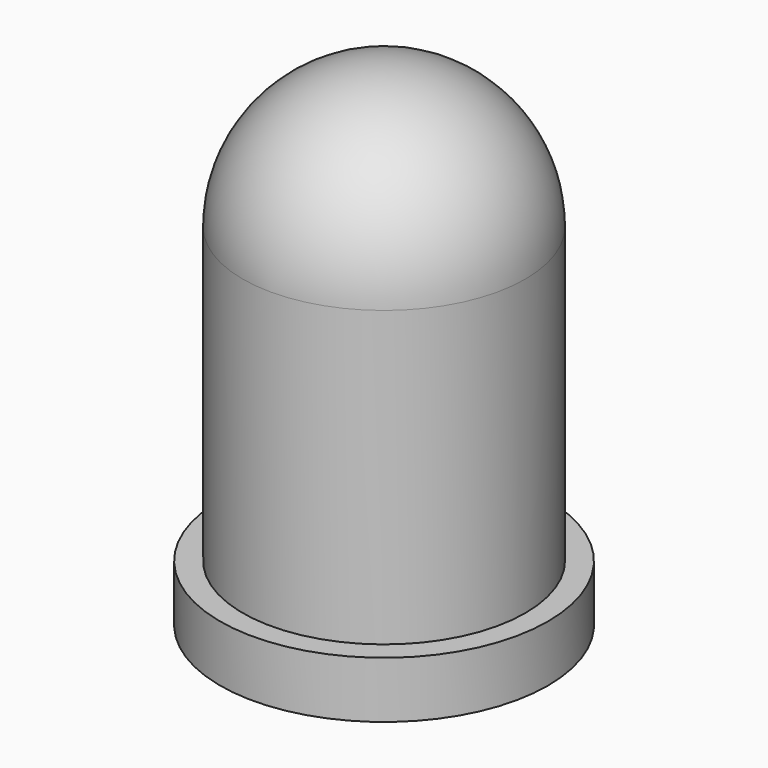
from build123d import *

# Parameters (mm, degrees)
CYLINDER_R        = 2.9
CYLINDER_DEPTH    = 1
SPHERE_ANGLE      = 180
SPHERE_ROLL_ANGLE = 90
CYLINDER001_R     = 2.5
CYLINDER001_DEPTH = 6.2


with BuildPart() as cilindro001:
    # Cylinder → Cylinder (new body)
    with BuildSketch(Plane.XY):
        Circle(CYLINDER_R)
    extrude(amount=CYLINDER_DEPTH)


with BuildPart() as obj1:
    # Sphere → Sphere (revolve)
    with BuildSketch(Plane.XZ):
        with BuildLine():
            ThreePointArc((0, -2.5), (2.5, 0), (0, 2.5))
            Line((0, 2.5), (0, -2.5))
        make_face()
    revolve(axis=Axis((0, 0, 0), (0, 0, 1)), revolution_arc=SPHERE_ANGLE)


with BuildPart() as obj1_1:
    # Sphere roll: moved
    add(obj1.part.rotate(Axis((0, 0, 0), (1, 0, 0)), SPHERE_ROLL_ANGLE))


with BuildPart() as obj1_2:
    # Sphere placement: moved
    add(obj1_1.part.moved(Location((0, 0, 6.2))))


with BuildPart() as led_cover:
    # Cylinder001 → Cylinder001 (new body)
    with BuildSketch(Plane.XY):
        Circle(CYLINDER001_R)
    extrude(amount=CYLINDER001_DEPTH)

    # Fusion003: union Cilindro001, obj1
    add(cilindro001.part)
    add(obj1_2.part)


with BuildPart() as led_cover_1:
    # Fusion003 placement: moved
    add(led_cover.part.moved(Location((6, 2.8, 1))))


solid = led_cover_1.part
